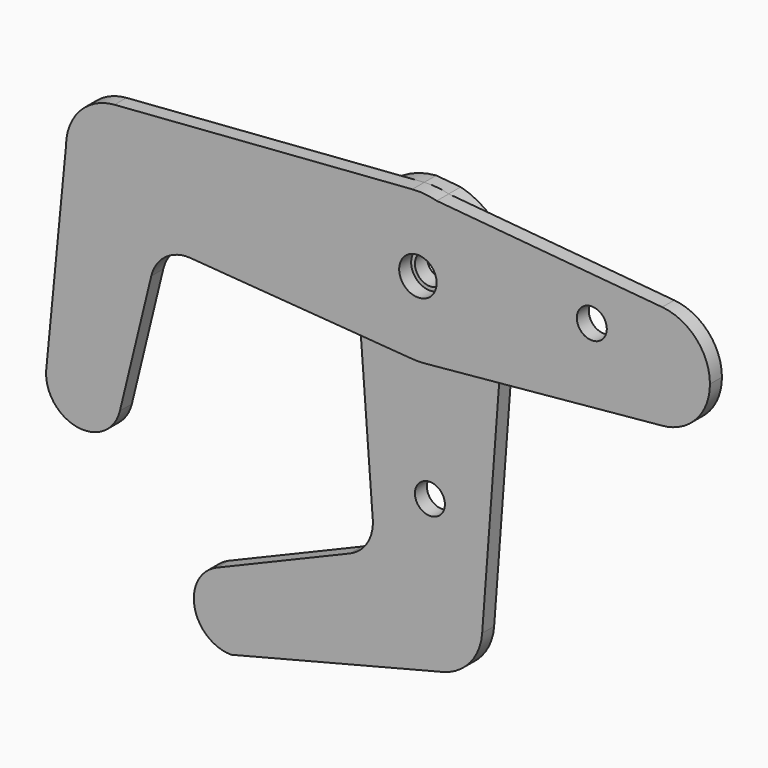
from build123d import *

# Parameters (mm, degrees)
F0_R     = 3.9751
F0_R_2   = 3.175
F1_DEPTH = 3.175
F2_DEPTH = 3.175
F3_DEPTH = 25.4
F4_DEPTH = 25.4


with BuildPart() as f1:
    # F0 (on Front) → F1 (new body)
    with BuildSketch(Plane.XZ):
        with BuildLine():
            ThreePointArc((-15.8302885984, 32.29963418), (-12.0356034274, 43.8420645847), (-1.190625, 49.3205477784))
            Line((-1.190625, 49.3205477784), (-64.3334375, 44.5714611988))
            ThreePointArc((-64.3334375, 44.5714611988), (-55.9426829486, 41.6373209346), (-52.3875, 33.49025918))
            ThreePointArc((-52.3875, 33.49025918), (-55.9442909745, 25.3417060954), (-64.3378113381, 22.4093869935))
            ThreePointArc((-64.3378113381, 22.4093869935), (-71.6485530846, 25.9345501545), (-74.6125, 33.49025918))
            Line((-74.6125, 33.49025918), (-78.7971892056, -9.5722352694))
            ThreePointArc((-78.7971892056, -9.5722352694), (-70.5125901007, -2.411771439), (-62.9594042993, -10.3399622065))
            ThreePointArc((-62.9594042993, -10.3399622065), (-63.0158587984, -11.2849638271), (-63.1844192443, -12.2165230305))
            Line((-63.1844192443, -12.2165230305), (-56.5262833311, 15.1477771658))
            ThreePointArc((-56.5262833311, 15.1477771658), (-53.4757934993, 19.6990979582), (-48.2051933, 21.1960223745))
            Line((-48.2051933, 21.1960223745), (-14.8062337279, 18.6840254521))
            Line((-14.8062337279, 18.6840254521), (-15.8302885984, 32.29963418))
        make_face()
        with BuildLine():
            Line((3.9944345899, 48.8545072028), (-1.190625, 49.3205477784))
            ThreePointArc((-1.190625, 49.3205477784), (-12.0356034274, 43.8420645847), (-15.8302885984, 32.29963418))
            ThreePointArc((-15.8302885984, 32.29963418), (-11.2253201513, 22.2649390286), (-1.190625, 17.6599705815))
            ThreePointArc((-1.190625, 17.6599705815), (0.1501525732, 17.6159692996), (1.4898579206, 17.6853248752))
            ThreePointArc((1.4898579206, 17.6853248752), (11.3309919236, 22.3716150618), (15.8302885984, 32.29963418))
            ThreePointArc((15.8302885984, 32.29963418), (15.8638182116, 32.8945270673), (15.875, 33.49025918))
            ThreePointArc((15.875, 33.49025918), (12.5584090178, 43.2011802456), (3.9944345899, 48.8545072028))
        make_face()
        with Locations((0, 33.49025918)):
            Circle(F0_R, mode=Mode.SUBTRACT)
        with BuildLine():
            Line((51.7947971649, 44.5581422138), (3.9944345899, 48.8545072028))
            ThreePointArc((3.9944345899, 48.8545072028), (12.5584090178, 43.2011802456), (15.875, 33.49025918))
            ThreePointArc((15.875, 33.49025918), (15.8638182116, 32.8945270673), (15.8302885984, 32.29963418))
            Line((15.8302885984, 32.29963418), (14.8256687681, 18.9424294803))
            Line((14.8256687681, 18.9424294803), (51.5091408873, 22.4004090704))
            ThreePointArc((51.5091408873, 22.4004090704), (42.3386131595, 26.2866080928), (39.9653564365, 35.9597034699))
            ThreePointArc((39.9653564365, 35.9597034699), (44.2663232789, 42.4790702668), (51.7947971649, 44.5581422138))
        make_face()
        with BuildLine():
            ThreePointArc((40.044744035, 36.66525918), (40.0248347132, 36.3102552184), (39.9653564365, 35.9597034699))
            ThreePointArc((39.9653564365, 35.9597034699), (33.7146533569, 37.0202631415), (40.044744035, 36.66525918))
        make_face(mode=Mode.SUBTRACT)
        with BuildLine():
            ThreePointArc((-52.3875, 33.49025918), (-55.9426829486, 41.6373209346), (-64.3334375, 44.5714611988))
            ThreePointArc((-64.3334375, 44.5714611988), (-71.6470617547, 41.0475762314), (-74.6125, 33.49025918))
            ThreePointArc((-74.6125, 33.49025918), (-71.6485530846, 25.9345501545), (-64.3378113381, 22.4093869935))
            ThreePointArc((-64.3378113381, 22.4093869935), (-55.9442909745, 25.3417060954), (-52.3875, 33.49025918))
        make_face()
        with Locations((-63.5, 33.49025918)):
            Circle(F0_R_2, mode=Mode.SUBTRACT)
        with BuildLine():
            ThreePointArc((61.9125, 33.49025918), (59.0019003818, 40.9880246056), (51.7947971649, 44.5581422138))
            ThreePointArc((51.7947971649, 44.5581422138), (44.2663232789, 42.4790702668), (39.9653564365, 35.9597034699))
            ThreePointArc((39.9653564365, 35.9597034699), (42.3386131595, 26.2866080928), (51.5091408873, 22.4004090704))
            ThreePointArc((51.5091408873, 22.4004090704), (58.9045661315, 25.8873870865), (61.9125, 33.49025918))
        make_face()
        with Locations((50.8, 33.49025918)):
            Circle(F0_R_2, mode=Mode.SUBTRACT)
        with BuildLine():
            ThreePointArc((-62.9594042993, -10.3399622065), (-70.5125901007, -2.411771439), (-78.7971892056, -9.5722352694))
            ThreePointArc((-78.7971892056, -9.5722352694), (-72.2223784171, -18.166010035), (-63.1844192443, -12.2165230305))
            ThreePointArc((-63.1844192443, -12.2165230305), (-63.0158587984, -11.2849638271), (-62.9594042993, -10.3399622065))
        make_face()
        with Locations((-70.8969042993, -10.3399622065)):
            Circle(F0_R_2, mode=Mode.SUBTRACT)
        with BuildLine():
            ThreePointArc((-1.190625, 17.6599705815), (-11.2253201513, 22.2649390286), (-15.8302885984, 32.29963418))
            Line((-15.8302885984, 32.29963418), (-14.8062337279, 18.6840254521))
            Line((-14.8062337279, 18.6840254521), (-1.190625, 17.6599705815))
        make_face()
        with BuildLine():
            ThreePointArc((15.8302885984, 32.29963418), (11.3309919236, 22.3716150618), (1.4898579206, 17.6853248752))
            Line((1.4898579206, 17.6853248752), (14.8256687681, 18.9424294803))
            Line((14.8256687681, 18.9424294803), (15.8302885984, 32.29963418))
        make_face()
        with Locations((-70.8969042993, -10.3399622065)):
            Circle(F0_R_2)
        with Locations((-63.5, 33.49025918)):
            Circle(F0_R_2)
        with Locations((50.8, 33.49025918)):
            Circle(F0_R_2)
        with BuildLine():
            ThreePointArc((40.044744035, 36.66525918), (33.7146533569, 37.0202631415), (39.9653564365, 35.9597034699))
            ThreePointArc((39.9653564365, 35.9597034699), (40.0248347132, 36.3102552184), (40.044744035, 36.66525918))
        make_face()
        with BuildLine():
            ThreePointArc((3.9944345899, 48.8545072028), (1.4211388069, 49.3015206569), (-1.190625, 49.3205477784))
            Line((-1.190625, 49.3205477784), (3.9944345899, 48.8545072028))
        make_face()
    extrude(amount=F1_DEPTH)

    # F0 (on Front) → F3 (cut)
    with BuildSketch(Plane.XZ):
        with BuildLine():
            ThreePointArc((40.044744035, 36.66525918), (33.7146533569, 37.0202631415), (39.9653564365, 35.9597034699))
            ThreePointArc((39.9653564365, 35.9597034699), (40.0248347132, 36.3102552184), (40.044744035, 36.66525918))
        make_face()
        with Locations((0, -9.35954082)):
            Circle(F0_R_2)
    extrude(amount=F3_DEPTH, mode=Mode.SUBTRACT)


with BuildPart() as f2:
    # F0 (on Front) → F2 (new body)
    with BuildSketch(Plane.XZ):
        with BuildLine():
            ThreePointArc((1.4898579206, 17.6853248752), (0.1501525732, 17.6159692996), (-1.190625, 17.6599705815))
            Line((-1.190625, 17.6599705815), (-14.8062337279, 18.6840254521))
            Line((-14.8062337279, 18.6840254521), (-12.1116893515, -17.1420449896))
            ThreePointArc((-12.1116893515, -17.1420449896), (-13.2595136069, -21.8901160153), (-16.9669465589, -25.0707794514))
            Line((-16.9669465589, -25.0707794514), (-45.1862193725, -36.8956038792))
            ThreePointArc((-45.1862193725, -36.8956038792), (-37.7223000594, -37.6075280366), (-34.1810762788, -44.2163601311))
            ThreePointArc((-34.1810762788, -44.2163601311), (-35.298561103, -48.2773082042), (-38.3363642794, -51.1948111513))
            Line((-38.3363642794, -51.1948111513), (2.7313370812, -40.7813448788))
            ThreePointArc((2.7313370812, -40.7813448788), (-8.7703945055, -23.1856777732), (11.1125, -30.00974082))
            ThreePointArc((11.1125, -30.00974082), (11.1046727481, -30.4267532989), (11.0812020189, -30.84317832))
            Line((11.0812020189, -30.84317832), (14.8256687681, 18.9424294803))
            Line((14.8256687681, 18.9424294803), (1.4898579206, 17.6853248752))
        make_face()
        with Locations((0, -9.35954082)):
            Circle(F0_R_2, mode=Mode.SUBTRACT)
        with BuildLine():
            Line((3.9944345899, 48.8545072028), (-1.190625, 49.3205477784))
            ThreePointArc((-1.190625, 49.3205477784), (-12.0356034274, 43.8420645847), (-15.8302885984, 32.29963418))
            ThreePointArc((-15.8302885984, 32.29963418), (-11.2253201513, 22.2649390286), (-1.190625, 17.6599705815))
            ThreePointArc((-1.190625, 17.6599705815), (0.1501525732, 17.6159692996), (1.4898579206, 17.6853248752))
            ThreePointArc((1.4898579206, 17.6853248752), (11.3309919236, 22.3716150618), (15.8302885984, 32.29963418))
            ThreePointArc((15.8302885984, 32.29963418), (15.8638182116, 32.8945270673), (15.875, 33.49025918))
            ThreePointArc((15.875, 33.49025918), (12.5584090178, 43.2011802456), (3.9944345899, 48.8545072028))
        make_face()
        with Locations((0, 33.49025918)):
            Circle(F0_R, mode=Mode.SUBTRACT)
        with BuildLine():
            ThreePointArc((2.7313370812, -40.7813448788), (8.50813421, -37.1581188539), (11.0812020189, -30.84317832))
            ThreePointArc((11.0812020189, -30.84317832), (11.1046727481, -30.4267532989), (11.1125, -30.00974082))
            ThreePointArc((11.1125, -30.00974082), (-8.7703945055, -23.1856777732), (2.7313370812, -40.7813448788))
        make_face()
        with Locations((0, -30.00974082)):
            Circle(F0_R_2, mode=Mode.SUBTRACT)
        with BuildLine():
            ThreePointArc((-34.1810762788, -44.2163601311), (-37.7223000594, -37.6075280366), (-45.1862193725, -36.8956038792))
            ThreePointArc((-45.1862193725, -36.8956038792), (-49.9003629952, -45.7808733941), (-42.1185762788, -52.1538601311))
            Line((-42.1185762788, -52.1538601311), (-38.3363642794, -51.1948111513))
            ThreePointArc((-38.3363642794, -51.1948111513), (-35.298561103, -48.2773082042), (-34.1810762788, -44.2163601311))
        make_face()
        with Locations((-42.1185762788, -44.2163601311)):
            Circle(F0_R_2, mode=Mode.SUBTRACT)
        with Locations((0, 33.49025918)):
            Circle(F0_R)
        with Locations((0, 33.49025918)):
            Circle(F0_R_2, mode=Mode.SUBTRACT)
        with BuildLine():
            ThreePointArc((-1.190625, 17.6599705815), (-11.2253201513, 22.2649390286), (-15.8302885984, 32.29963418))
            Line((-15.8302885984, 32.29963418), (-14.8062337279, 18.6840254521))
            Line((-14.8062337279, 18.6840254521), (-1.190625, 17.6599705815))
        make_face()
        with BuildLine():
            ThreePointArc((15.8302885984, 32.29963418), (11.3309919236, 22.3716150618), (1.4898579206, 17.6853248752))
            Line((1.4898579206, 17.6853248752), (14.8256687681, 18.9424294803))
            Line((14.8256687681, 18.9424294803), (15.8302885984, 32.29963418))
        make_face()
        with Locations((0, -30.00974082)):
            Circle(F0_R_2)
        with Locations((-42.1185762788, -44.2163601311)):
            Circle(F0_R_2)
        with Locations((0, -9.35954082)):
            Circle(F0_R_2)
    extrude(amount=-F2_DEPTH)

    # F0 (on Front) → F4 (cut)
    with BuildSketch(Plane.XZ):
        with Locations((0, -9.35954082)):
            Circle(F0_R_2)
    extrude(amount=-F4_DEPTH, mode=Mode.SUBTRACT)


solid = Compound([f1.part, f2.part])
